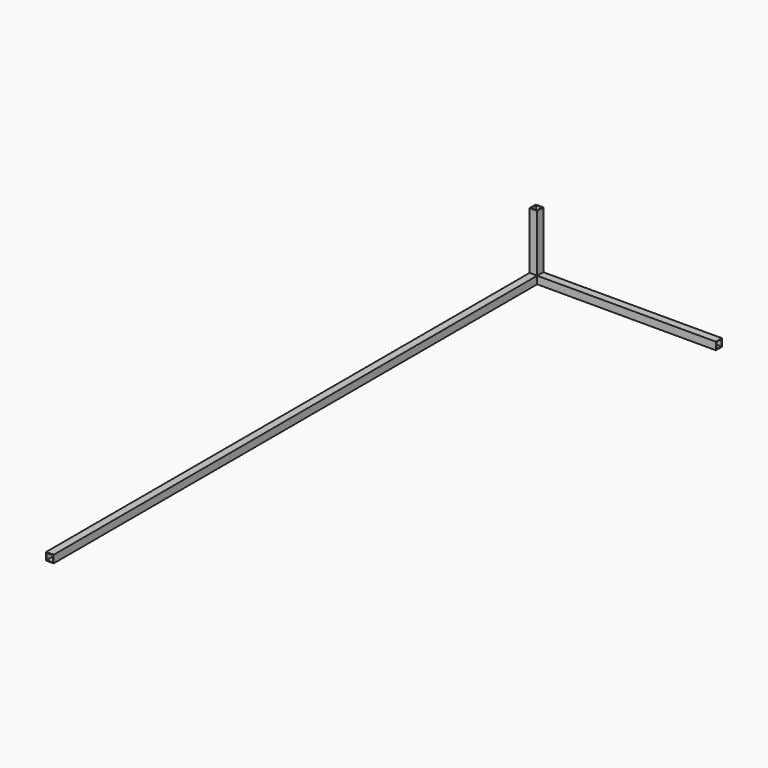
from build123d import *

# Parameters (mm, degrees)
F0_W     = 25
F0_H     = 25
F0_W_2   = 21
F0_H_2   = 21
F1_DEPTH = 2000
F2_W     = 25
F2_H     = 25
F2_W_2   = 21
F2_H_2   = 21
F3_DEPTH = 600
F4_W     = 25
F4_H     = 25
F4_W_2   = 21
F4_H_2   = 21
F5_DEPTH = 200


with BuildPart() as f1:
    # F0 (on Front) → F1 (new body)
    with BuildSketch(Plane.XZ):
        Rectangle(F0_W, F0_H)
        Rectangle(F0_W_2, F0_H_2, mode=Mode.SUBTRACT)
    extrude(amount=F1_DEPTH)


with BuildPart() as f3:
    # F2 (on Right) → F3 (new body)
    with BuildSketch(Plane.YZ):
        Rectangle(F2_W, F2_H)
        Rectangle(F2_W_2, F2_H_2, mode=Mode.SUBTRACT)
    extrude(amount=F3_DEPTH)


with BuildPart() as f5:
    # F4 (on Top) → F5 (new body)
    with BuildSketch(Plane.XY):
        Rectangle(F4_W, F4_H)
        Rectangle(F4_W_2, F4_H_2, mode=Mode.SUBTRACT)
    extrude(amount=F5_DEPTH)


solid = Compound([f1.part, f3.part, f5.part])
